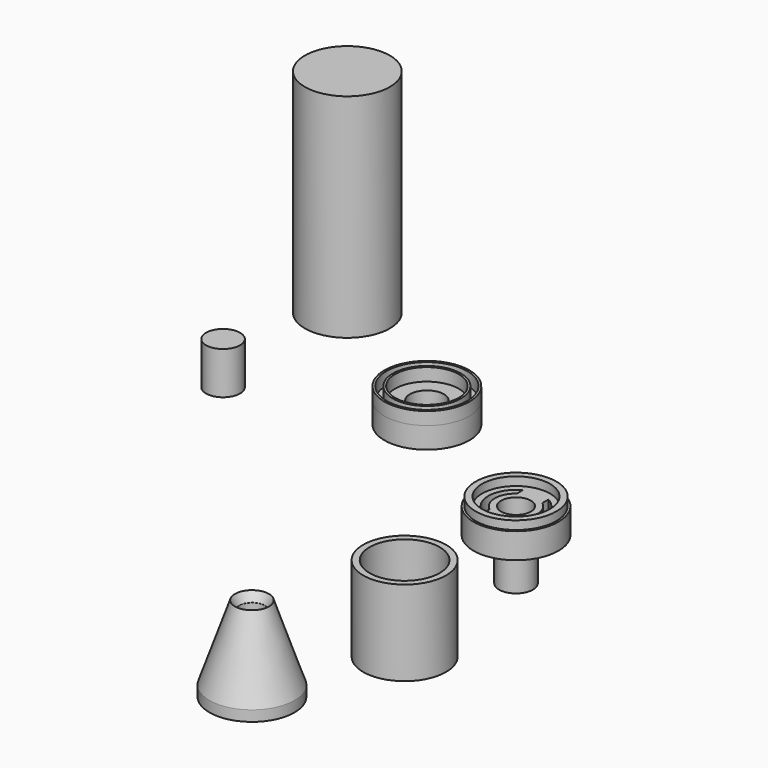
from build123d import *

# Parameters (mm, degrees)
F0_R      = 10
F1_DEPTH  = 50
F2_R      = 10
F2_R_2    = 9.5
F2_R_3    = 8
F2_R_4    = 7.5
F2_R_5    = 4
F3_DEPTH  = 5
F4_DEPTH  = 3
F5_DEPTH  = 3
F6_R      = 4
F7_DEPTH  = 10
F8_R      = 10
F8_R_2    = 9.5
F8_R_3    = 8
F8_R_4    = 7.5
F8_R_5    = 4
F8_R_6    = 3.5
F9_DEPTH  = 3
F10_DEPTH = 3
F11_DEPTH = 13
F12_DEPTH = 5
F15_R     = 9.75
F15_R_2   = 8.25
F16_DEPTH = 20


with BuildPart() as f1:
    # F0 (on Top) → F1 (new body)
    with BuildSketch(Plane.XY):
        with Locations((-58.6755499244, 59.0673238039)):
            Circle(F0_R)
    extrude(amount=F1_DEPTH)


with BuildPart() as f3:
    # F2 (on Top) → F3 (new body)
    with BuildSketch(Plane.XY):
        with Locations((-25.4676453769, 40.9389398992)):
            Circle(F2_R)
        with Locations((-25.4676453769, 40.9389398992)):
            Circle(F2_R_2, mode=Mode.SUBTRACT)
        with Locations((-25.4676453769, 40.9389398992)):
            Circle(F2_R_2)
        with Locations((-25.4676453769, 40.9389398992)):
            Circle(F2_R_3, mode=Mode.SUBTRACT)
        with Locations((-25.4676453769, 40.9389398992)):
            Circle(F2_R_3)
        with Locations((-25.4676453769, 40.9389398992)):
            Circle(F2_R_4, mode=Mode.SUBTRACT)
        with Locations((-25.4676453769, 40.9389398992)):
            Circle(F2_R_4)
        with Locations((-25.4676453769, 40.9389398992)):
            Circle(F2_R_5, mode=Mode.SUBTRACT)
        with Locations((-25.4676453769, 40.9389398992)):
            Circle(F2_R_5)
    extrude(amount=-F3_DEPTH)

    # F2 (on Top) → F4 (join)
    with BuildSketch(Plane.XY):
        with Locations((-25.4676453769, 40.9389398992)):
            Circle(F2_R)
        with Locations((-25.4676453769, 40.9389398992)):
            Circle(F2_R_2, mode=Mode.SUBTRACT)
        with Locations((-25.4676453769, 40.9389398992)):
            Circle(F2_R_3)
        with Locations((-25.4676453769, 40.9389398992)):
            Circle(F2_R_4, mode=Mode.SUBTRACT)
    extrude(amount=F4_DEPTH)

    # F2 (on Top) → F5 (cut)
    with BuildSketch(Plane.XY):
        with Locations((-25.4676453769, 40.9389398992)):
            Circle(F2_R_5)
    extrude(amount=-F5_DEPTH, mode=Mode.SUBTRACT)


with BuildPart() as f7:
    # F6 (on Top) → F7 (new body)
    with BuildSketch(Plane.XY):
        with Locations((-57.975590229, 21.6506272554)):
            Circle(F6_R)
    extrude(amount=F7_DEPTH)


with BuildPart() as f9:
    # F8 (on Top) → F9 (new body)
    with BuildSketch(Plane.XY):
        with Locations((17.1636063606, 13.8505138457)):
            Circle(F8_R)
        with Locations((17.1636063606, 13.8505138457)):
            Circle(F8_R_2, mode=Mode.SUBTRACT)
        with Locations((17.1636063606, 13.8505138457)):
            Circle(F8_R_2)
        with Locations((17.1636063606, 13.8505138457)):
            Circle(F8_R_3, mode=Mode.SUBTRACT)
        with Locations((17.1636063606, 13.8505138457)):
            Circle(F8_R_3)
        with Locations((17.1636063606, 13.8505138457)):
            Circle(F8_R_4, mode=Mode.SUBTRACT)
        with Locations((17.1636063606, 13.8505138457)):
            Circle(F8_R_4)
        with BuildLine():
            ThreePointArc((14.1636063606, 8.0842325483), (10.6636063606, 13.8505138457), (14.1636063606, 19.616795143))
            Line((14.1636063606, 19.616795143), (14.1636063606, 17.8505138457))
            ThreePointArc((14.1636063606, 17.8505138457), (12.1636063606, 13.8505138457), (14.1636063606, 9.8505138457))
            Line((14.1636063606, 9.8505138457), (14.1636063606, 8.0842325483))
        make_face(mode=Mode.SUBTRACT)
        with Locations((17.1636063606, 13.8505138457)):
            Circle(F8_R_5, mode=Mode.SUBTRACT)
        with BuildLine():
            Line((20.1636063606, 8.0842325483), (20.1636063606, 9.8505138457))
            ThreePointArc((20.1636063606, 9.8505138457), (22.1636063606, 13.8505138457), (20.1636063606, 17.8505138457))
            Line((20.1636063606, 17.8505138457), (20.1636063606, 19.616795143))
            ThreePointArc((20.1636063606, 19.616795143), (23.6636063606, 13.8505138457), (20.1636063606, 8.0842325483))
        make_face(mode=Mode.SUBTRACT)
        with Locations((17.1636063606, 13.8505138457)):
            Circle(F8_R_5)
        with Locations((17.1636063606, 13.8505138457)):
            Circle(F8_R_6, mode=Mode.SUBTRACT)
    extrude(amount=F9_DEPTH)

    # F8 (on Top) → F10 (join)
    with BuildSketch(Plane.XY):
        with Locations((17.1636063606, 13.8505138457)):
            Circle(F8_R)
        with Locations((17.1636063606, 13.8505138457)):
            Circle(F8_R_2, mode=Mode.SUBTRACT)
        with Locations((17.1636063606, 13.8505138457)):
            Circle(F8_R_3)
        with Locations((17.1636063606, 13.8505138457)):
            Circle(F8_R_4, mode=Mode.SUBTRACT)
    extrude(amount=-F10_DEPTH)

    # F8 (on Top) → F11 (join)
    with BuildSketch(Plane.XY):
        with Locations((17.1636063606, 13.8505138457)):
            Circle(F8_R_5)
        with Locations((17.1636063606, 13.8505138457)):
            Circle(F8_R_6, mode=Mode.SUBTRACT)
    extrude(amount=-F11_DEPTH)

    # F8 (on Top) → F12 (join)
    with BuildSketch(Plane.XY):
        with Locations((17.1636063606, 13.8505138457)):
            Circle(F8_R_2)
        with Locations((17.1636063606, 13.8505138457)):
            Circle(F8_R_3, mode=Mode.SUBTRACT)
    extrude(amount=F12_DEPTH)


with BuildPart() as f14:
    # F13 (on Front) → F14 (revolve)
    with BuildSketch(Plane.XZ):
        Polygon((-43.8535261154, -44.9353833431), (-43.8535261154, -47.4353833431), (-43.3535261154, -47.4353833431), (-43.3535261154, -44.9353833431), (-37.8535261154, -44.9353833431), (-37.8535261154, -47.4353833431), (-37.8535261154, -50.4353833431), (-36.8535261154, -50.4353833431), (-36.8535261154, -47.4353833431), (-36.8535261154, -29.5051056892), (-37.8535261154, -27.4353833431), align=None)
    revolve(axis=Axis((-33.8535261154, 0, -37.4353833431), (0, 0, -1)))


with BuildPart() as f16:
    # F15 (on Top) → F16 (new body)
    with BuildSketch(Plane.XY):
        with Locations((34.997805953, -41.1867722869)):
            Circle(F15_R)
        with Locations((34.997805953, -41.1867722869)):
            Circle(F15_R_2, mode=Mode.SUBTRACT)
    extrude(amount=F16_DEPTH)


solid = Compound([f1.part, f3.part, f7.part, f9.part, f14.part, f16.part])
